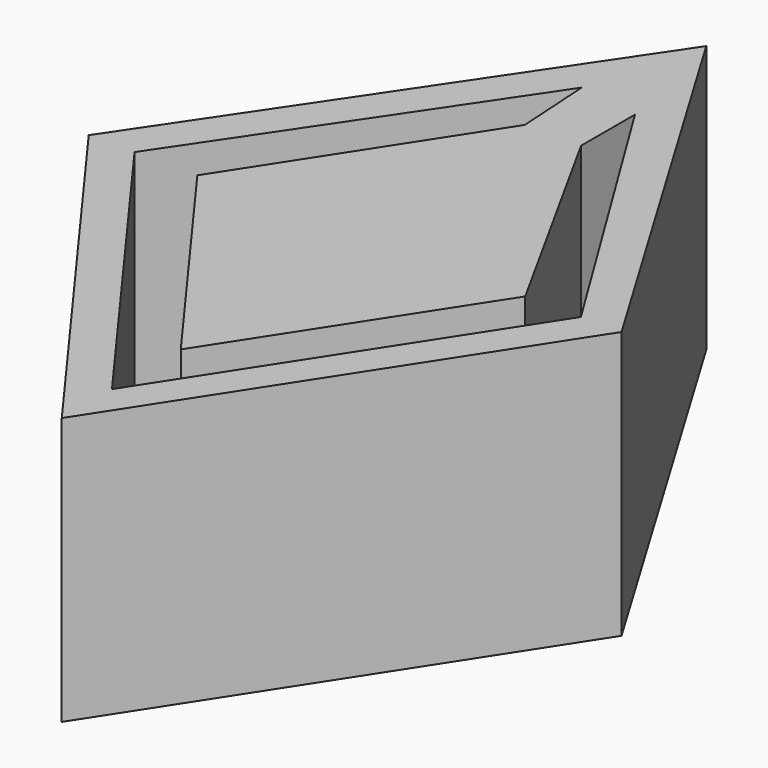
from build123d import *

# Parameters (mm, degrees)
F1_DEPTH = 25.4


with BuildPart() as f1:
    # F0 (on Top) → F1 (new body)
    with BuildSketch(Plane.XY):
        Polygon((23.7744, 0), (0, 39.7764), (-26.822401, 0), (0, -36.728401), align=None)
        Polygon((-22.47112, 0), (-3.048, 28.803602), (-2.596588, 21.4884), (-16.506091, 0), (0, -22.60209), (14.630399, 0), (2.743201, 21.4884), (2.743201, 27.8892), (19.917583, 0), (0, -30.770112), align=None, mode=Mode.SUBTRACT)
    extrude(amount=F1_DEPTH)


solid = f1.part
